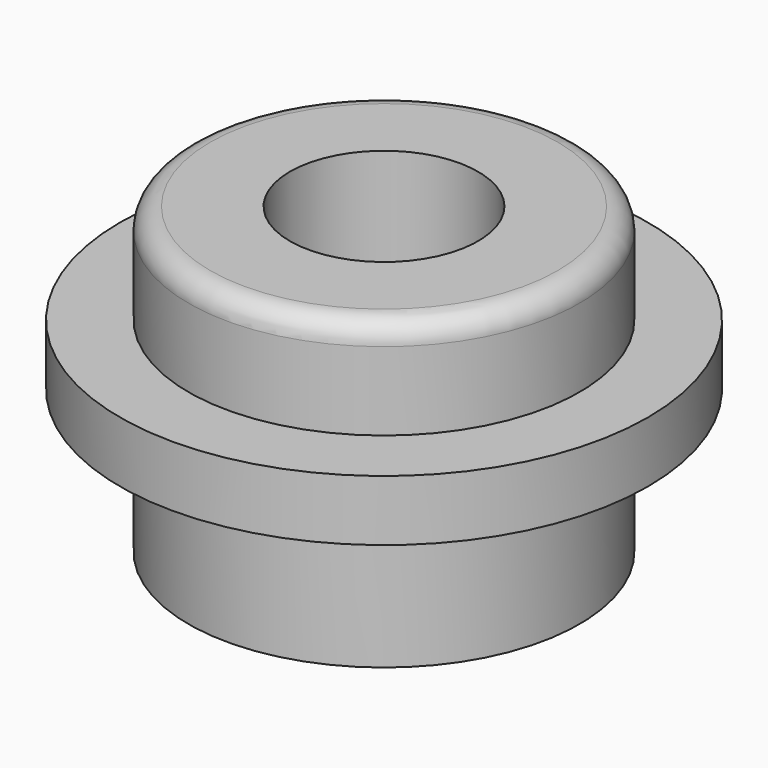
from build123d import *

# Parameters (mm, degrees)
F2_R     = 5
F3_R     = 25
F4_DEPTH = 10


with BuildPart() as f1:
    # F0 (on Front) → F1 (revolve)
    with BuildSketch(Plane.XZ):
        Polygon((-60.746692, 14), (-60.746692, 0), (-45, 0), (-45, -33), (-21.65, -33), (-21.65, 37), (-45, 37), (-45, 14), align=None)
    revolve(axis=Axis((0, 0, 28.312229), (0, 0, 1)))

    # F2
    f2_edges = [f1.edges().sort_by_distance(p)[0] for p in [
        (45, 0, 37),
    ]]
    fillet(f2_edges, radius=F2_R)

    # F3 (on face) → F4 (cut)
    with BuildSketch(Plane(origin=(0, 0, -33), x_dir=(1, 0, 0), z_dir=(0, 0, -1))):
        Circle(F3_R)
    extrude(amount=-F4_DEPTH, mode=Mode.SUBTRACT)


solid = f1.part
